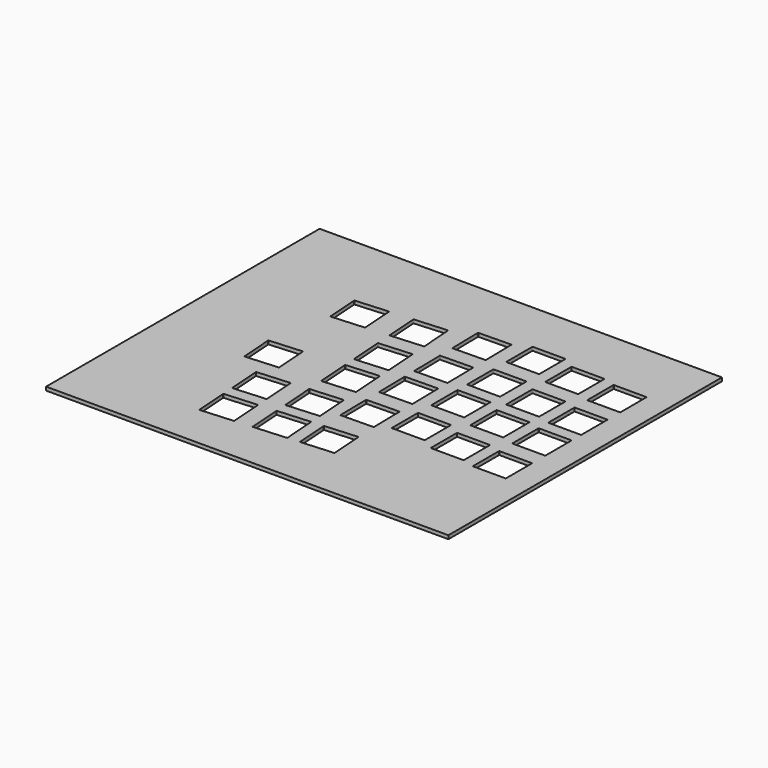
from build123d import *

# Parameters (mm, degrees)
SKETCH007_W          = 170.65797
SKETCH007_H          = 145.032017
PAD001_DEPTH         = 1.5
POCKET005_DEPTH      = 0.001
POCKET005_DEPTH_BACK = 1.501
POCKET006_DEPTH      = 0.001
POCKET006_DEPTH_BACK = 1.501
POCKET007_DEPTH      = 0.001
POCKET007_DEPTH_BACK = 1.501
POCKET008_DEPTH      = 0.001
POCKET008_DEPTH_BACK = 1.501
POCKET009_DEPTH      = 0.001
POCKET009_DEPTH_BACK = 1.501


with BuildPart() as part:
    # Sketch007 → Pad001 (new body)
    with BuildSketch(Plane.XY):
        with Locations((-87.243479, 31.358969)):
            Rectangle(SKETCH007_W, SKETCH007_H)
    extrude(amount=PAD001_DEPTH)

    # Sketch008 → Pocket005 (cut, two sides)
    with BuildSketch(Plane.XY) as pocket005_sk:
        with BuildLine():
            ThreePointArc((-26.375, 16.525), (-26.481066, 16.481066), (-26.525, 16.375))
            Line((-26.525, 2.675), (-26.525, 16.375))
            ThreePointArc((-26.525, 2.675), (-26.481066, 2.568934), (-26.375, 2.525))
            Line((-12.675, 2.525), (-26.375, 2.525))
            ThreePointArc((-12.675, 2.525), (-12.568934, 2.568934), (-12.525, 2.675))
            Line((-12.525, 16.375), (-12.525, 2.675))
            ThreePointArc((-12.525, 16.375), (-12.568934, 16.481066), (-12.675, 16.525))
            Line((-26.375, 16.525), (-12.675, 16.525))
        make_face()
        with BuildLine():
            ThreePointArc((-26.375, 37.460443), (-26.481066, 37.416509), (-26.525, 37.310443))
            Line((-26.525, 23.610443), (-26.525, 37.310443))
            ThreePointArc((-26.525, 23.610443), (-26.481066, 23.504377), (-26.375, 23.460443))
            Line((-12.675, 23.460443), (-26.375, 23.460443))
            ThreePointArc((-12.675, 23.460443), (-12.568934, 23.504377), (-12.525, 23.610443))
            Line((-12.525, 37.310443), (-12.525, 23.610443))
            ThreePointArc((-12.525, 37.310443), (-12.568934, 37.416509), (-12.675, 37.460443))
            Line((-26.375, 37.460443), (-12.675, 37.460443))
        make_face()
        with BuildLine():
            ThreePointArc((-26.375, 56.510443), (-26.481066, 56.466509), (-26.525, 56.360443))
            Line((-26.525, 42.660443), (-26.525, 56.360443))
            ThreePointArc((-26.525, 42.660443), (-26.481066, 42.554377), (-26.375, 42.510443))
            Line((-12.675, 42.510443), (-26.375, 42.510443))
            ThreePointArc((-12.675, 42.510443), (-12.568934, 42.554377), (-12.525, 42.660443))
            Line((-12.525, 56.360443), (-12.525, 42.660443))
            ThreePointArc((-12.525, 56.360443), (-12.568934, 56.466509), (-12.675, 56.510443))
            Line((-26.375, 56.510443), (-12.675, 56.510443))
        make_face()
        with BuildLine():
            ThreePointArc((-26.375, 77.215851), (-26.481066, 77.171917), (-26.525, 77.065851))
            Line((-26.525, 63.365851), (-26.525, 77.065851))
            ThreePointArc((-26.525, 63.365851), (-26.481066, 63.259785), (-26.375, 63.215851))
            Line((-12.675, 63.215851), (-26.375, 63.215851))
            ThreePointArc((-12.675, 63.215851), (-12.568934, 63.259785), (-12.525, 63.365851))
            Line((-12.525, 77.065851), (-12.525, 63.365851))
            ThreePointArc((-12.525, 77.065851), (-12.568934, 77.171917), (-12.675, 77.215851))
            Line((-26.375, 77.215851), (-12.675, 77.215851))
        make_face()
        with BuildLine():
            ThreePointArc((-45.425, 18.025), (-45.531066, 17.981066), (-45.575, 17.875))
            Line((-45.575, 4.175), (-45.575, 17.875))
            ThreePointArc((-45.575, 4.175), (-45.531066, 4.068934), (-45.425, 4.025))
            Line((-31.725, 4.025), (-45.425, 4.025))
            ThreePointArc((-31.725, 4.025), (-31.618934, 4.068934), (-31.575, 4.175))
            Line((-31.575, 17.875), (-31.575, 4.175))
            ThreePointArc((-31.575, 17.875), (-31.618934, 17.981066), (-31.725, 18.025))
            Line((-45.425, 18.025), (-31.725, 18.025))
        make_face()
        with BuildLine():
            ThreePointArc((-45.425, 38.960443), (-45.531066, 38.916509), (-45.575, 38.810443))
            Line((-45.575, 25.110443), (-45.575, 38.810443))
            ThreePointArc((-45.575, 25.110443), (-45.531066, 25.004377), (-45.425, 24.960443))
            Line((-31.725, 24.960443), (-45.425, 24.960443))
            ThreePointArc((-31.725, 24.960443), (-31.618934, 25.004377), (-31.575, 25.110443))
            Line((-31.575, 38.810443), (-31.575, 25.110443))
            ThreePointArc((-31.575, 38.810443), (-31.618934, 38.916509), (-31.725, 38.960443))
            Line((-45.425, 38.960443), (-31.725, 38.960443))
        make_face()
        with BuildLine():
            ThreePointArc((-45.425, 58.010443), (-45.531066, 57.966509), (-45.575, 57.860443))
            Line((-45.575, 44.160443), (-45.575, 57.860443))
            ThreePointArc((-45.575, 44.160443), (-45.531066, 44.054377), (-45.425, 44.010443))
            Line((-31.725, 44.010443), (-45.425, 44.010443))
            ThreePointArc((-31.725, 44.010443), (-31.618934, 44.054377), (-31.575, 44.160443))
            Line((-31.575, 57.860443), (-31.575, 44.160443))
            ThreePointArc((-31.575, 57.860443), (-31.618934, 57.966509), (-31.725, 58.010443))
            Line((-45.425, 58.010443), (-31.725, 58.010443))
        make_face()
        with BuildLine():
            ThreePointArc((-45.425, 78.715851), (-45.531066, 78.671917), (-45.575, 78.565851))
            Line((-45.575, 64.865851), (-45.575, 78.565851))
            ThreePointArc((-45.575, 64.865851), (-45.531066, 64.759785), (-45.425, 64.715851))
            Line((-31.725, 64.715851), (-45.425, 64.715851))
            ThreePointArc((-31.725, 64.715851), (-31.618934, 64.759785), (-31.575, 64.865851))
            Line((-31.575, 78.565851), (-31.575, 64.865851))
            ThreePointArc((-31.575, 78.565851), (-31.618934, 78.671917), (-31.725, 78.715851))
            Line((-45.425, 78.715851), (-31.725, 78.715851))
        make_face()
    extrude(amount=-POCKET005_DEPTH, mode=Mode.SUBTRACT)
    extrude(pocket005_sk.sketch, amount=POCKET005_DEPTH_BACK, mode=Mode.SUBTRACT)

    # Sketch009 → Pocket006 (cut, two sides)
    with BuildSketch(Plane.XY) as pocket006_sk:
        with BuildLine():
            ThreePointArc((-64.475, 81.837171), (-64.581066, 81.793237), (-64.625, 81.687171))
            Line((-64.625, 67.987171), (-64.625, 81.687171))
            ThreePointArc((-64.625, 67.987171), (-64.581066, 67.881105), (-64.475, 67.837171))
            Line((-50.775, 67.837171), (-64.475, 67.837171))
            ThreePointArc((-50.775, 67.837171), (-50.668934, 67.881105), (-50.625, 67.987171))
            Line((-50.625, 81.687171), (-50.625, 67.987171))
            ThreePointArc((-50.625, 81.687171), (-50.668934, 81.793237), (-50.775, 81.837171))
            Line((-64.475, 81.837171), (-50.775, 81.837171))
        make_face()
        with BuildLine():
            ThreePointArc((-64.475, 61.131763), (-64.581066, 61.087829), (-64.625, 60.981763))
            Line((-64.625, 47.281763), (-64.625, 60.981763))
            ThreePointArc((-64.625, 47.281763), (-64.581066, 47.175697), (-64.475, 47.131763))
            Line((-50.775, 47.131763), (-64.475, 47.131763))
            ThreePointArc((-50.775, 47.131763), (-50.668934, 47.175697), (-50.625, 47.281763))
            Line((-50.625, 60.981763), (-50.625, 47.281763))
            ThreePointArc((-50.625, 60.981763), (-50.668934, 61.087829), (-50.775, 61.131763))
            Line((-64.475, 61.131763), (-50.775, 61.131763))
        make_face()
        with BuildLine():
            ThreePointArc((-64.475, 42.081763), (-64.581066, 42.037829), (-64.625, 41.931763))
            Line((-64.625, 28.231763), (-64.625, 41.931763))
            ThreePointArc((-64.625, 28.231763), (-64.581066, 28.125697), (-64.475, 28.081763))
            Line((-50.775, 28.081763), (-64.475, 28.081763))
            ThreePointArc((-50.775, 28.081763), (-50.668934, 28.125697), (-50.625, 28.231763))
            Line((-50.625, 41.931763), (-50.625, 28.231763))
            ThreePointArc((-50.625, 41.931763), (-50.668934, 42.037829), (-50.775, 42.081763))
            Line((-64.475, 42.081763), (-50.775, 42.081763))
        make_face()
        with BuildLine():
            ThreePointArc((-64.475, 21.14632), (-64.581066, 21.102386), (-64.625, 20.99632))
            Line((-64.625, 7.29632), (-64.625, 20.99632))
            ThreePointArc((-64.625, 7.29632), (-64.581066, 7.190254), (-64.475, 7.14632))
            Line((-50.775, 7.14632), (-64.475, 7.14632))
            ThreePointArc((-50.775, 7.14632), (-50.668934, 7.190254), (-50.625, 7.29632))
            Line((-50.625, 20.99632), (-50.625, 7.29632))
            ThreePointArc((-50.625, 20.99632), (-50.668934, 21.102386), (-50.775, 21.14632))
            Line((-64.475, 21.14632), (-50.775, 21.14632))
        make_face()
    extrude(amount=-POCKET006_DEPTH, mode=Mode.SUBTRACT)
    extrude(pocket006_sk.sketch, amount=POCKET006_DEPTH_BACK, mode=Mode.SUBTRACT)

    # Sketch010 → Pocket007 (cut, two sides)
    with BuildSketch(Plane.XY) as pocket007_sk:
        with BuildLine():
            ThreePointArc((-84.826477, 78.418688), (-84.931761, 78.37291), (-84.973837, 78.266093))
            Line((-84.734739, 64.56818), (-84.973837, 78.266093))
            ThreePointArc((-84.734739, 64.56818), (-84.68896, 64.462897), (-84.582144, 64.420821))
            Line((-70.88423, 64.659919), (-84.582144, 64.420821))
            ThreePointArc((-70.88423, 64.659919), (-70.778947, 64.705697), (-70.736871, 64.812514))
            Line((-70.975969, 78.510427), (-70.736871, 64.812514))
            ThreePointArc((-70.975969, 78.510427), (-71.021747, 78.61571), (-71.128564, 78.657786))
            Line((-84.826477, 78.418688), (-71.128564, 78.657786))
        make_face()
        with BuildLine():
            ThreePointArc((-84.465118, 57.716433), (-84.570401, 57.670655), (-84.612477, 57.563838))
            Line((-84.37338, 43.865925), (-84.612477, 57.563838))
            ThreePointArc((-84.37338, 43.865925), (-84.327601, 43.760642), (-84.220785, 43.718566))
            Line((-70.522871, 43.957664), (-84.220785, 43.718566))
            ThreePointArc((-70.522871, 43.957664), (-70.417588, 44.003442), (-70.375512, 44.110259))
            Line((-70.61461, 57.808172), (-70.375512, 44.110259))
            ThreePointArc((-70.61461, 57.808172), (-70.660388, 57.913455), (-70.767205, 57.955531))
            Line((-84.465118, 57.716433), (-70.767205, 57.955531))
        make_face()
        with BuildLine():
            ThreePointArc((-84.13265, 38.669335), (-84.237933, 38.623557), (-84.280009, 38.51674))
            Line((-84.040911, 24.818826), (-84.280009, 38.51674))
            ThreePointArc((-84.040911, 24.818826), (-83.995133, 24.713543), (-83.888316, 24.671467))
            Line((-70.190403, 24.910565), (-83.888316, 24.671467))
            ThreePointArc((-70.190403, 24.910565), (-70.08512, 24.956344), (-70.043043, 25.06316))
            Line((-70.282141, 38.761074), (-70.043043, 25.06316))
            ThreePointArc((-70.282141, 38.761074), (-70.32792, 38.866357), (-70.434736, 38.908433))
            Line((-84.13265, 38.669335), (-70.434736, 38.908433))
        make_face()
        with BuildLine():
            ThreePointArc((-83.767276, 17.737081), (-83.872559, 17.691302), (-83.914635, 17.584486))
            Line((-83.675537, 3.886572), (-83.914635, 17.584486))
            ThreePointArc((-83.675537, 3.886572), (-83.629759, 3.781289), (-83.522942, 3.739213))
            Line((-69.825029, 3.978311), (-83.522942, 3.739213))
            ThreePointArc((-69.825029, 3.978311), (-69.719746, 4.024089), (-69.67767, 4.130906))
            Line((-69.916768, 17.828819), (-69.67767, 4.130906))
            ThreePointArc((-69.916768, 17.828819), (-69.962546, 17.934103), (-70.069363, 17.976179))
            Line((-83.767276, 17.737081), (-70.069363, 17.976179))
        make_face()
    extrude(amount=-POCKET007_DEPTH, mode=Mode.SUBTRACT)
    extrude(pocket007_sk.sketch, amount=POCKET007_DEPTH_BACK, mode=Mode.SUBTRACT)

    # Sketch011 → Pocket008 (cut, two sides)
    with BuildSketch(Plane.XY) as pocket008_sk:
        with BuildLine():
            ThreePointArc((-103.3274, 12.021358), (-103.430143, 11.970132), (-103.466572, 11.86126))
            Line((-102.510908, -1.805368), (-103.466572, 11.86126))
            ThreePointArc((-102.510908, -1.805368), (-102.459682, -1.908111), (-102.35081, -1.944539))
            Line((-88.684182, -0.988875), (-102.35081, -1.944539))
            ThreePointArc((-88.684182, -0.988875), (-88.581439, -0.937649), (-88.545011, -0.828777))
            Line((-89.500675, 12.83785), (-88.545011, -0.828777))
            ThreePointArc((-89.500675, 12.83785), (-89.551901, 12.940593), (-89.660773, 12.977022))
            Line((-103.3274, 12.021358), (-89.660773, 12.977022))
        make_face()
        with BuildLine():
            ThreePointArc((-104.787783, 32.905803), (-104.890526, 32.854577), (-104.926954, 32.745705))
            Line((-103.971291, 19.079077), (-104.926954, 32.745705))
            ThreePointArc((-103.971291, 19.079077), (-103.920065, 18.976334), (-103.811193, 18.939906))
            Line((-90.144565, 19.89557), (-103.811193, 18.939906))
            ThreePointArc((-90.144565, 19.89557), (-90.041822, 19.946796), (-90.005394, 20.055668))
            Line((-90.961058, 33.722295), (-90.005394, 20.055668))
            ThreePointArc((-90.961058, 33.722295), (-91.012283, 33.825038), (-91.121156, 33.861467))
            Line((-104.787783, 32.905803), (-91.121156, 33.861467))
        make_face()
        with BuildLine():
            ThreePointArc((-106.116644, 51.909398), (-106.219387, 51.858172), (-106.255815, 51.7493))
            Line((-105.300151, 38.082672), (-106.255815, 51.7493))
            ThreePointArc((-105.300151, 38.082672), (-105.248926, 37.97993), (-105.140053, 37.943501))
            Line((-91.473426, 38.899165), (-105.140053, 37.943501))
            ThreePointArc((-91.473426, 38.899165), (-91.370683, 38.950391), (-91.334255, 39.059263))
            Line((-92.289918, 52.725891), (-91.334255, 39.059263))
            ThreePointArc((-92.289918, 52.725891), (-92.341144, 52.828634), (-92.450016, 52.865062))
            Line((-106.116644, 51.909398), (-92.450016, 52.865062))
        make_face()
        with BuildLine():
            ThreePointArc((-107.56098, 72.564369), (-107.663723, 72.513143), (-107.700151, 72.404271))
            Line((-106.744488, 58.737643), (-107.700151, 72.404271))
            ThreePointArc((-106.744488, 58.737643), (-106.693262, 58.634901), (-106.58439, 58.598472))
            Line((-92.917762, 59.554136), (-106.58439, 58.598472))
            ThreePointArc((-92.917762, 59.554136), (-92.815019, 59.605362), (-92.778591, 59.714234))
            Line((-93.734255, 73.380862), (-92.778591, 59.714234))
            ThreePointArc((-93.734255, 73.380862), (-93.78548, 73.483605), (-93.894353, 73.520033))
            Line((-107.56098, 72.564369), (-93.894353, 73.520033))
        make_face()
        with BuildLine():
            ThreePointArc((-131.315474, 70.903293), (-131.418217, 70.852067), (-131.454645, 70.743195))
            Line((-130.498982, 57.076567), (-131.454645, 70.743195))
            ThreePointArc((-130.498982, 57.076567), (-130.447756, 56.973824), (-130.338884, 56.937396))
            Line((-116.672256, 57.89306), (-130.338884, 56.937396))
            ThreePointArc((-116.672256, 57.89306), (-116.569513, 57.944286), (-116.533085, 58.053158))
            Line((-117.488749, 71.719786), (-116.533085, 58.053158))
            ThreePointArc((-117.488749, 71.719786), (-117.539974, 71.822529), (-117.648847, 71.858957))
            Line((-131.315474, 70.903293), (-117.648847, 71.858957))
        make_face()
        with BuildLine():
            ThreePointArc((-135.668625, 30.746404), (-135.771368, 30.695178), (-135.807796, 30.586306))
            Line((-134.852133, 16.919678), (-135.807796, 30.586306))
            ThreePointArc((-134.852133, 16.919678), (-134.800907, 16.816936), (-134.692035, 16.780507))
            Line((-121.025407, 17.736171), (-134.692035, 16.780507))
            ThreePointArc((-121.025407, 17.736171), (-120.922664, 17.787397), (-120.886236, 17.896269))
            Line((-121.8419, 31.562897), (-120.886236, 17.896269))
            ThreePointArc((-121.8419, 31.562897), (-121.893125, 31.66564), (-122.001998, 31.702068))
            Line((-135.668625, 30.746404), (-122.001998, 31.702068))
        make_face()
        with BuildLine():
            ThreePointArc((-124.706445, 10.526389), (-124.809188, 10.475164), (-124.845616, 10.366291))
            Line((-123.889952, -3.300336), (-124.845616, 10.366291))
            ThreePointArc((-123.889952, -3.300336), (-123.838727, -3.403079), (-123.729854, -3.439507))
            Line((-110.063227, -2.483844), (-123.729854, -3.439507))
            ThreePointArc((-110.063227, -2.483844), (-109.960484, -2.432618), (-109.924056, -2.323745))
            Line((-110.879719, 11.342882), (-109.924056, -2.323745))
            ThreePointArc((-110.879719, 11.342882), (-110.930945, 11.445625), (-111.039818, 11.482053))
            Line((-124.706445, 10.526389), (-111.039818, 11.482053))
        make_face()
    extrude(amount=-POCKET008_DEPTH, mode=Mode.SUBTRACT)
    extrude(pocket008_sk.sketch, amount=POCKET008_DEPTH_BACK, mode=Mode.SUBTRACT)

    # Sketch012 → Pocket009 (cut, two sides)
    with BuildSketch(Plane.XY) as pocket009_sk:
        with BuildLine():
            ThreePointArc((-101.99854, -6.982237), (-102.101283, -7.033463), (-102.137711, -7.142335))
            Line((-101.182047, -20.808963), (-102.137711, -7.142335))
            ThreePointArc((-101.182047, -20.808963), (-101.130821, -20.911706), (-101.021949, -20.948134))
            Line((-87.355322, -19.99247), (-101.021949, -20.948134))
            ThreePointArc((-87.355322, -19.99247), (-87.252579, -19.941245), (-87.21615, -19.832372))
            Line((-88.171814, -6.165745), (-87.21615, -19.832372))
            ThreePointArc((-88.171814, -6.165745), (-88.22304, -6.063002), (-88.331912, -6.026574))
            Line((-101.99854, -6.982237), (-88.331912, -6.026574))
        make_face()
        with BuildLine():
            ThreePointArc((-82.994945, -5.653376), (-83.097687, -5.704602), (-83.134116, -5.813475))
            Line((-82.178452, -19.480102), (-83.134116, -5.813475))
            ThreePointArc((-82.178452, -19.480102), (-82.127226, -19.582845), (-82.018354, -19.619273))
            Line((-68.351726, -18.663609), (-82.018354, -19.619273))
            ThreePointArc((-68.351726, -18.663609), (-68.248983, -18.612384), (-68.212555, -18.503511))
            Line((-69.168219, -4.836884), (-68.212555, -18.503511))
            ThreePointArc((-69.168219, -4.836884), (-69.219445, -4.734141), (-69.328317, -4.697713))
            Line((-82.994945, -5.653376), (-69.328317, -4.697713))
        make_face()
        with BuildLine():
            ThreePointArc((-123.377584, -8.477206), (-123.480327, -8.528431), (-123.516755, -8.637304))
            Line((-122.561092, -22.303931), (-123.516755, -8.637304))
            ThreePointArc((-122.561092, -22.303931), (-122.509866, -22.406674), (-122.400994, -22.443102))
            Line((-108.734366, -21.487439), (-122.400994, -22.443102))
            ThreePointArc((-108.734366, -21.487439), (-108.631623, -21.436213), (-108.595195, -21.327341))
            Line((-109.550859, -7.660713), (-108.595195, -21.327341))
            ThreePointArc((-109.550859, -7.660713), (-109.602084, -7.55797), (-109.710957, -7.521542))
            Line((-123.377584, -8.477206), (-109.710957, -7.521542))
        make_face()
    extrude(amount=-POCKET009_DEPTH, mode=Mode.SUBTRACT)
    extrude(pocket009_sk.sketch, amount=POCKET009_DEPTH_BACK, mode=Mode.SUBTRACT)


solid = part.part
